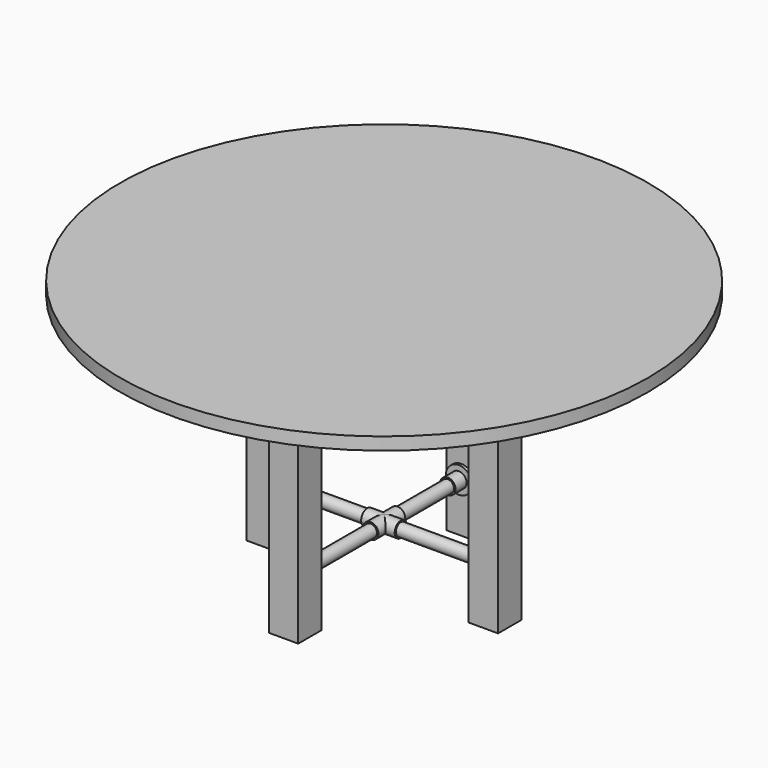
from build123d import *

# Parameters (mm, degrees)
F0_R      = 31.5
F1_DEPTH  = 1.5
F3_DEPTH  = 3.5
F4_W      = 3.5
F4_H      = 3.5
F5_DEPTH  = 30
F6_R      = 0.75
F7_DEPTH  = 23
F8_R      = 0.75
F9_DEPTH  = 23
F10_R     = 0.925
F11_DEPTH = 2
F12_R     = 0.925
F13_DEPTH = 2
F6_R_2    = 0.925
F14_DEPTH = 2
F6_R_3    = 1.5625
F15_DEPTH = 0.35
F17_DEPTH = 0.75


with BuildPart() as f1:
    # F0 (on Top) → F1 (new body)
    with BuildSketch(Plane.XY):
        Circle(F0_R)
    extrude(amount=F1_DEPTH)

    # F2 (on Top) → F3 (join)
    with BuildSketch(Plane.XY):
        Polygon((-6.834524, 16.5), (-16.5, 6.834524), (-16.5, -6.834524), (-6.834524, -16.5), (6.834524, -16.5), (16.5, -6.834524), (16.5, 6.834524), (6.834524, 16.5), align=None)
        Polygon((6.213203, -15), (-6.213203, -15), (-15, -6.213203), (-15, 6.213203), (-6.213203, 15), (6.213203, 15), (15, 6.213203), (15, -6.213203), align=None, mode=Mode.SUBTRACT)
    extrude(amount=-F3_DEPTH)

    # F4 (on Top) → F5 (join)
    with BuildSketch(Plane.XY):
        with Locations((0, -13.25)):
            Rectangle(F4_W, F4_H)
        with Locations((13.25, 0)):
            Rectangle(F4_W, F4_H)
        with Locations((0, 13.25)):
            Rectangle(F4_W, F4_H)
        with Locations((-13.25, 0)):
            Rectangle(F4_W, F4_H)
    extrude(amount=-F5_DEPTH)

    # F6 (on face) → F7 (join, through all)
    with BuildSketch(Plane.XZ.offset(-11.5)):
        with Locations((0, -11)):
            Circle(F6_R)
        with Locations((0, -24)):
            Circle(F6_R)
    extrude(amount=F7_DEPTH)

    # F8 (on face) → F9 (join, through all)
    with BuildSketch(Plane(origin=(11.5, 0, 0), x_dir=(0, -1, 0), z_dir=(-1, 0, 0))):
        with Locations((0, -24)):
            Circle(F8_R)
        with Locations((0, -11)):
            Circle(F8_R)
    extrude(amount=F9_DEPTH)

    # F10 (on Front) → F11 (join, symmetric)
    with BuildSketch(Plane.XZ):
        with Locations((0, -11)):
            Circle(F10_R)
        with Locations((0, -24)):
            Circle(F10_R)
    extrude(amount=F11_DEPTH, both=True)

    # F12 (on Right) → F13 (join, symmetric)
    with BuildSketch(Plane.YZ):
        with Locations((0, -24)):
            Circle(F12_R)
        with Locations((0, -11)):
            Circle(F12_R)
    extrude(amount=F13_DEPTH, both=True)

    # F6 (on face) → F14 (join)
    with BuildSketch(Plane.XZ.offset(-11.5)):
        with Locations((0, -24)):
            Circle(F6_R_2)
        with Locations((0, -24)):
            Circle(F6_R, mode=Mode.SUBTRACT)
        with Locations((0, -11)):
            Circle(F6_R_2)
        with Locations((0, -11)):
            Circle(F6_R, mode=Mode.SUBTRACT)
    extrude(amount=F14_DEPTH)

    # F6 (on face) → F15 (join)
    with BuildSketch(Plane.XZ.offset(-11.5)):
        with Locations((0, -24)):
            Circle(F6_R_3)
        with Locations((0, -24)):
            Circle(F6_R_2, mode=Mode.SUBTRACT)
        with Locations((0, -11)):
            Circle(F6_R_3)
        with Locations((0, -11)):
            Circle(F6_R_2, mode=Mode.SUBTRACT)
    extrude(amount=F15_DEPTH)

    # F16 (on face) → F17 (join)
    with BuildSketch(Plane(origin=(0, 0, 0), x_dir=(1, 0, 0), z_dir=(0, 0, -1))):
        Polygon((9.722718, 13.611806), (13.611806, 9.722718), (22.097087, 18.208), (18.208, 22.097087), align=None)
        Polygon((-19.975767, 18.208), (-11.490485, 9.722718), (-7.601398, 13.611806), (-16.086679, 22.097087), align=None)
        Polygon((-16.086679, -19.975767), (-7.601398, -11.490485), (-11.490485, -7.601398), (-19.975767, -16.086679), align=None)
        Polygon((22.097087, -16.086679), (13.611806, -7.601398), (9.722718, -11.490485), (18.208, -19.975767), align=None)
    extrude(amount=F17_DEPTH)


solid = f1.part
